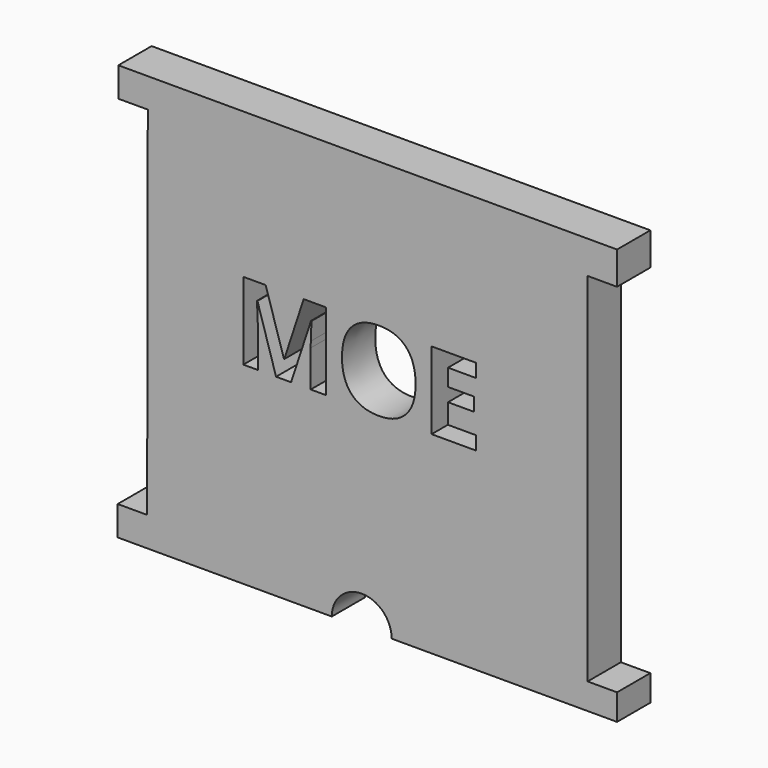
from build123d import *

# Parameters (mm, degrees)
F1_DEPTH = 25


with BuildPart() as f1:
    # F0 (on Front) → F1 (new body)
    with BuildSketch(Plane.XZ):
        with BuildLine():
            Line((25.196740713, -77.0597371716), (142.969147649, -77.0597371716))
            Line((142.969147649, -77.0597371716), (160.669147649, -77.0597371716))
            Line((160.669147649, -77.0597371716), (160.669147649, -61.3928571429))
            Line((160.669147649, -61.3928571429), (142.969147649, -61.3928571429))
            Line((142.969147649, -61.3928571429), (142.969147649, 153.2071428571))
            Line((142.969147649, 153.2071428571), (160.669147649, 153.2071428571))
            Line((160.669147649, 153.2071428571), (160.669147649, 172.9402628284))
            Line((160.669147649, 172.9402628284), (142.969147649, 172.9402628284))
            Line((142.969147649, 172.9402628284), (21.10726993, 172.9402628284))
            Line((21.10726993, 172.9402628284), (-28.89273007, 172.9402628284))
            Line((-28.89273007, 172.9402628284), (-121.4202080463, 172.9402628284))
            Line((-121.4202080463, 172.9402628284), (-139.1202080463, 172.9402628284))
            Line((-139.1202080463, 172.9402628284), (-139.1202080463, 155.2402628284))
            Line((-139.1202080463, 155.2402628284), (-121.4202080463, 155.2402628284))
            Line((-121.4202080463, 155.2402628284), (-121.8146599785, -59.3593746542))
            Line((-121.8146599785, -59.3593746542), (-139.5146599785, -59.3593746542))
            Line((-139.5146599785, -59.3593746542), (-139.5146599785, -77.0597371716))
            Line((-139.5146599785, -77.0597371716), (-121.630852351, -77.0597371716))
            Line((-121.630852351, -77.0597371716), (-10.803259287, -77.0597371716))
            ThreePointArc((-10.803259287, -77.0597371716), (7.196740713, -59.0597371716), (25.196740713, -77.0597371716))
        make_face()
        with BuildLine():
            Line((-35.2772239302, 38.9654661138), (-44.3083446842, 38.9654661138))
            Line((-44.3083446842, 38.9654661138), (-55.4955438163, 75.4153949225))
            Line((-55.4955438163, 75.4153949225), (-55.7803088852, 75.4153949225))
            add(Edge.make_bspline(
                [(-55.7803088852, 75.4153949225), (-55.1700980234, 64.2993870576), (-55.1700980234, 60.5771008009)],
                knots=[0, 0, 0, 1, 1, 1], degree=2))
            Line((-55.1700980234, 60.5771008009), (-55.1700980234, 38.9654661138))
            Line((-55.1700980234, 38.9654661138), (-63.9774747947, 38.9654661138))
            Line((-63.9774747947, 38.9654661138), (-63.9774747947, 85.4330232363))
            Line((-63.9774747947, 85.4330232363), (-50.5630060172, 85.4330232363))
            Line((-50.5630060172, 85.4330232363), (-39.5690403246, 49.8984107202))
            Line((-39.5690403246, 49.8984107202), (-39.375806885, 49.8984107202))
            Line((-39.375806885, 49.8984107202), (-27.7106092445, 85.4330232363))
            Line((-27.7106092445, 85.4330232363), (-14.306310648, 85.4330232363))
            Line((-14.306310648, 85.4330232363), (-14.306310648, 38.9654661138))
            Line((-14.306310648, 38.9654661138), (-23.4899841174, 38.9654661138))
            Line((-23.4899841174, 38.9654661138), (-23.4899841174, 60.96356768))
            add(Edge.make_bspline(
                [(-23.4899841174, 60.96356768), (-23.4899841174, 62.5196053775), (-23.4391332122, 64.5536415833)],
                knots=[0, 0, 0, 1, 1, 1], degree=2))
            add(Edge.make_bspline(
                [(-23.4391332122, 64.5536415833), (-23.3882823071, 66.5876777892), (-23.011985609, 75.3543738363)],
                knots=[0, 0, 0, 1, 1, 1], degree=2))
            Line((-23.011985609, 75.3543738363), (-23.2967506778, 75.3543738363))
            Line((-23.2967506778, 75.3543738363), (-35.2772239302, 38.9654661138))
        make_face(mode=Mode.SUBTRACT)
        with BuildLine():
            add(Edge.make_bspline(
                [(33.8901772495, 79.9970614762), (39.5651382638, 73.828846682), (39.5651382638, 62.2653508517)],
                knots=[0, 0, 0, 1, 1, 1], degree=2))
            add(Edge.make_bspline(
                [(39.5651382638, 62.2653508517), (39.5651382638, 50.7221953836), (33.8444114349, 44.5234700463)],
                knots=[0, 0, 0, 1, 1, 1], degree=2))
            add(Edge.make_bspline(
                [(33.8444114349, 44.5234700463), (28.1236846059, 38.3247447089), (17.4449945252, 38.3247447089)],
                knots=[0, 0, 0, 1, 1, 1], degree=2))
            add(Edge.make_bspline(
                [(17.4449945252, 38.3247447089), (6.7663044446, 38.3247447089), (1.0455776156, 44.5234700463)],
                knots=[0, 0, 0, 1, 1, 1], degree=2))
            add(Edge.make_bspline(
                [(1.0455776156, 44.5234700463), (-4.6751492133, 50.7221953836), (-4.6751492133, 62.3263719379)],
                knots=[0, 0, 0, 1, 1, 1], degree=2))
            add(Edge.make_bspline(
                [(-4.6751492133, 62.3263719379), (-4.6751492133, 73.9305484922), (1.0608328872, 80.0479123813)],
                knots=[0, 0, 0, 1, 1, 1], degree=2))
            add(Edge.make_bspline(
                [(1.0608328872, 80.0479123813), (6.7968149877, 86.1652762704), (17.5060156114, 86.1652762704)],
                knots=[0, 0, 0, 1, 1, 1], degree=2))
            add(Edge.make_bspline(
                [(17.5060156114, 86.1652762704), (28.2152162352, 86.1652762704), (33.8901772495, 79.9970614762)],
                knots=[0, 0, 0, 1, 1, 1], degree=2))
        make_face(mode=Mode.SUBTRACT)
        Polygon((75.9540459864, 47.1016109372), (75.9540459864, 38.9654661138), (49.1962996985, 38.9654661138), (49.1962996985, 85.4330232363), (75.9540459864, 85.4330232363), (75.9540459864, 77.3578994991), (59.0512051158, 77.3578994991), (59.0512051158, 67.1572079268), (74.784475168, 67.1572079268), (74.784475168, 59.0820841896), (59.0512051158, 59.0820841896), (59.0512051158, 47.1016109372), align=None, mode=Mode.SUBTRACT)
    extrude(amount=F1_DEPTH)


solid = f1.part
